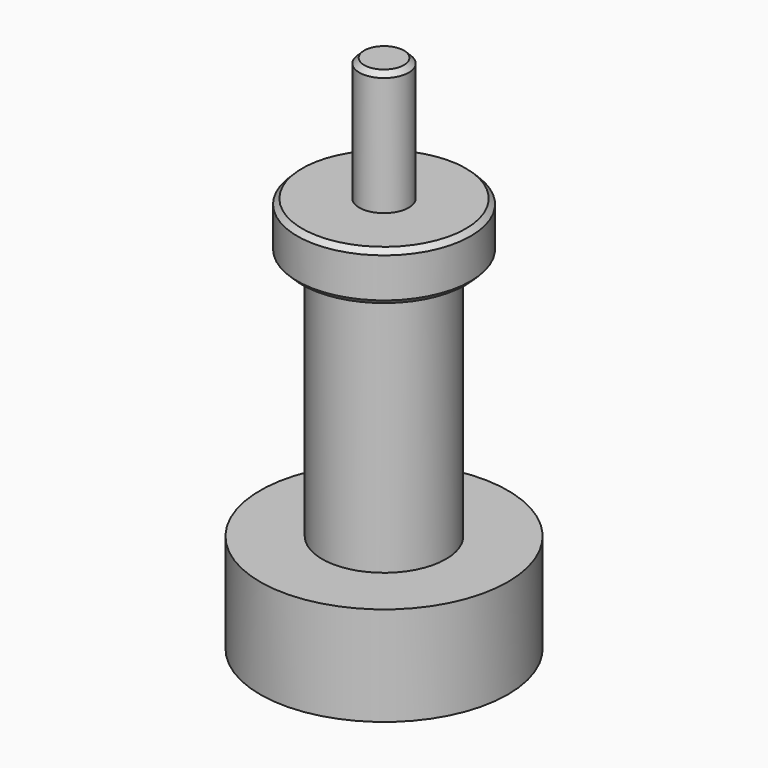
from build123d import *

# Parameters (mm, degrees)
F0_R     = 5
F1_DEPTH = 4
F2_R     = 2.5
F3_DEPTH = 10
F4_R     = 3.5
F5_DEPTH = 2
F6_R     = 1
F7_DEPTH = 5
F8_SIZE  = 0.2


with BuildPart() as f1:
    # F0 (on Top) → F1 (new body)
    with BuildSketch(Plane.XY):
        Circle(F0_R)
    extrude(amount=F1_DEPTH)

    # F2 (on face) → F3 (join)
    with BuildSketch(Plane.XY.offset(4)):
        Circle(F2_R)
    extrude(amount=F3_DEPTH)

    # F4 (on face) → F5 (join)
    with BuildSketch(Plane.XY.offset(14)):
        Circle(F4_R)
    extrude(amount=F5_DEPTH)

    # F6 (on face) → F7 (join)
    with BuildSketch(Plane.XY.offset(16)):
        Circle(F6_R)
    extrude(amount=F7_DEPTH)

    # F8
    f8_edges = [f1.edges().sort_by_distance(p)[0] for p in [
        (-1, 0, 21),
        (-3.5, 0, 16),
        (-3.5, 0, 14),
    ]]
    chamfer(f8_edges, length=F8_SIZE)


solid = f1.part
